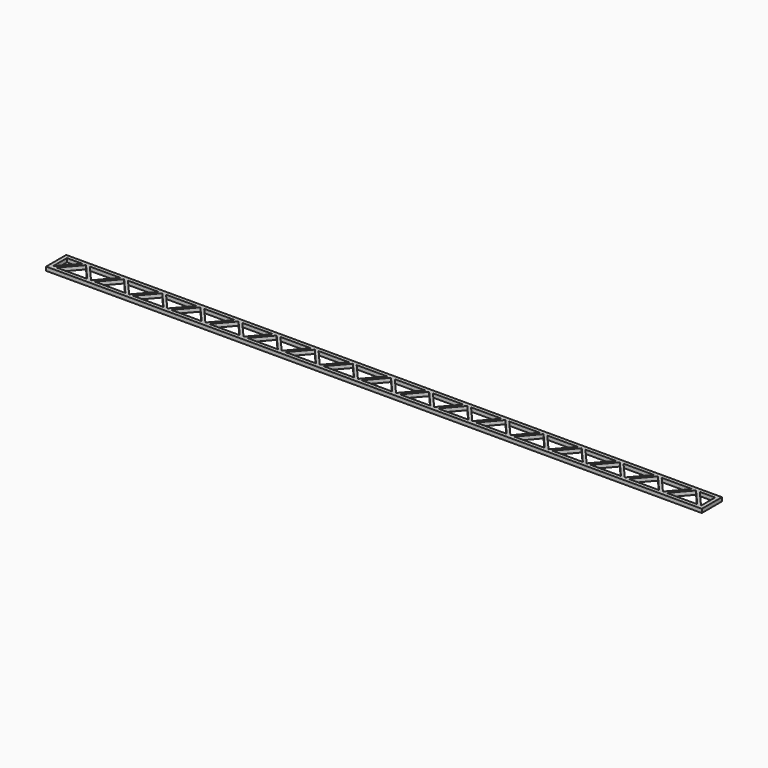
from build123d import *

# Parameters (mm, degrees)
F1_DEPTH = 1.27


with BuildPart() as f1:
    # F0 (on Top) → F1 (new body)
    with BuildSketch(Plane.XY):
        Polygon((185.990537, 43.269212), (-33.791009, 43.269212), (-33.791009, 34.836412), (185.990537, 34.836412), (185.990537, 36.106412), align=None)
        Polygon((-32.521009, 36.106412), (-32.521009, 41.999212), (-27.398476, 41.999212), align=None, mode=Mode.SUBTRACT)
        Polygon((-21.012094, 36.106412), (-31.251009, 36.106412), (-26.131552, 41.999212), align=None, mode=Mode.SUBTRACT)
        Polygon((-14.619562, 41.999212), (-19.742094, 36.106412), (-24.864627, 41.999212), align=None, mode=Mode.SUBTRACT)
        Polygon((-8.23318, 36.106412), (-18.472094, 36.106412), (-13.352637, 41.999212), align=None, mode=Mode.SUBTRACT)
        Polygon((-1.840647, 41.999212), (-6.96318, 36.106412), (-12.085713, 41.999212), align=None, mode=Mode.SUBTRACT)
        Polygon((4.545734, 36.106412), (-5.69318, 36.106412), (-0.573723, 41.999212), align=None, mode=Mode.SUBTRACT)
        Polygon((10.938267, 41.999212), (5.815734, 36.106412), (0.693202, 41.999212), align=None, mode=Mode.SUBTRACT)
        Polygon((7.085734, 36.106412), (12.205192, 41.999212), (17.324649, 36.106412), align=None, mode=Mode.SUBTRACT)
        Polygon((23.717182, 41.999212), (18.594649, 36.106412), (13.472116, 41.999212), align=None, mode=Mode.SUBTRACT)
        Polygon((30.103563, 36.106412), (19.864649, 36.106412), (24.984106, 41.999212), align=None, mode=Mode.SUBTRACT)
        Polygon((36.496096, 41.999212), (31.373563, 36.106412), (26.25103, 41.999212), align=None, mode=Mode.SUBTRACT)
        Polygon((32.643563, 36.106412), (37.763021, 41.999212), (42.882478, 36.106412), align=None, mode=Mode.SUBTRACT)
        Polygon((49.275011, 41.999212), (44.152478, 36.106412), (39.029945, 41.999212), align=None, mode=Mode.SUBTRACT)
        Polygon((45.422478, 36.106412), (50.541935, 41.999212), (55.661392, 36.106412), align=None, mode=Mode.SUBTRACT)
        Polygon((62.053925, 41.999212), (56.931392, 36.106412), (51.808859, 41.999212), align=None, mode=Mode.SUBTRACT)
        Polygon((58.201392, 36.106412), (63.320849, 41.999212), (68.440307, 36.106412), align=None, mode=Mode.SUBTRACT)
        Polygon((74.83284, 41.999212), (69.710307, 36.106412), (64.587774, 41.999212), align=None, mode=Mode.SUBTRACT)
        Polygon((81.219221, 36.106412), (70.980307, 36.106412), (76.099764, 41.999212), align=None, mode=Mode.SUBTRACT)
        Polygon((87.611754, 41.999212), (82.489221, 36.106412), (77.366688, 41.999212), align=None, mode=Mode.SUBTRACT)
        Polygon((83.759221, 36.106412), (88.878678, 41.999212), (93.998136, 36.106412), align=None, mode=Mode.SUBTRACT)
        Polygon((100.390668, 41.999212), (95.268136, 36.106412), (90.145603, 41.999212), align=None, mode=Mode.SUBTRACT)
        Polygon((96.538136, 36.106412), (101.657593, 41.999212), (106.77705, 36.106412), align=None, mode=Mode.SUBTRACT)
        Polygon((113.169583, 41.999212), (108.04705, 36.106412), (102.924517, 41.999212), align=None, mode=Mode.SUBTRACT)
        Polygon((109.31705, 36.106412), (114.436507, 41.999212), (119.555964, 36.106412), align=None, mode=Mode.SUBTRACT)
        Polygon((125.948497, 41.999212), (120.825964, 36.106412), (115.703432, 41.999212), align=None, mode=Mode.SUBTRACT)
        Polygon((122.095964, 36.106412), (127.215422, 41.999212), (132.334879, 36.106412), align=None, mode=Mode.SUBTRACT)
        Polygon((138.727412, 41.999212), (133.604879, 36.106412), (128.482346, 41.999212), align=None, mode=Mode.SUBTRACT)
        Polygon((134.874879, 36.106412), (139.994336, 41.999212), (145.113793, 36.106412), align=None, mode=Mode.SUBTRACT)
        Polygon((151.506326, 41.999212), (146.383793, 36.106412), (141.26126, 41.999212), align=None, mode=Mode.SUBTRACT)
        Polygon((147.653793, 36.106412), (152.773251, 41.999212), (157.892708, 36.106412), align=None, mode=Mode.SUBTRACT)
        Polygon((164.285241, 41.999212), (159.162708, 36.106412), (154.040175, 41.999212), align=None, mode=Mode.SUBTRACT)
        Polygon((160.432708, 36.106412), (165.552165, 41.999212), (170.671622, 36.106412), align=None, mode=Mode.SUBTRACT)
        Polygon((177.064155, 41.999212), (171.941622, 36.106412), (166.819089, 41.999212), align=None, mode=Mode.SUBTRACT)
        Polygon((173.211622, 36.106412), (178.331079, 41.999212), (183.450537, 36.106412), align=None, mode=Mode.SUBTRACT)
        Polygon((184.720537, 41.999212), (184.720537, 36.106412), (179.598004, 41.999212), align=None, mode=Mode.SUBTRACT)
    extrude(amount=F1_DEPTH)


solid = f1.part
